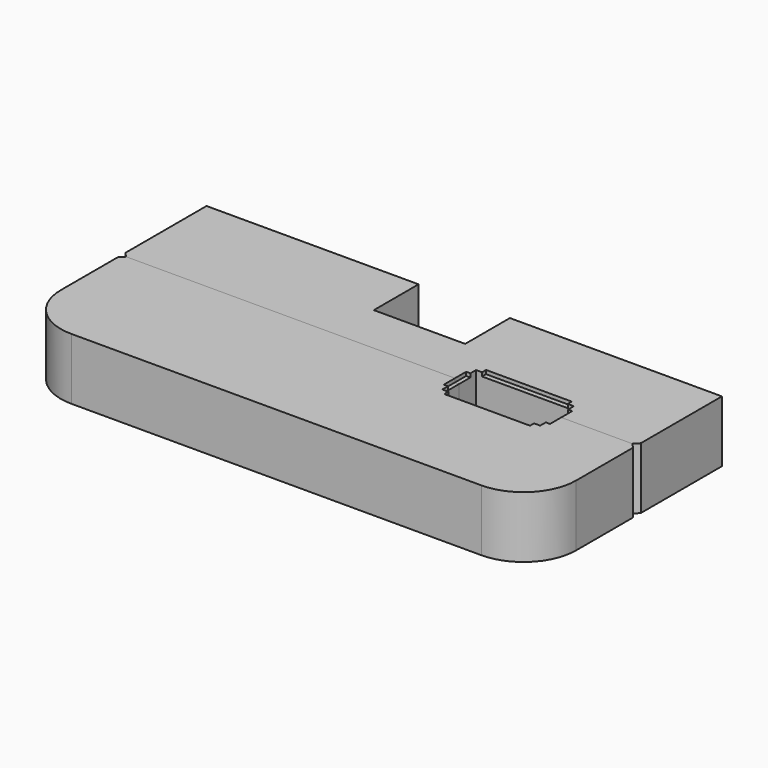
from build123d import *

# Parameters (mm, degrees)
F1_DEPTH  = 8.382
F2_DEPTH  = 8.382
F3_W      = 6.6675
F3_H      = 2.8702
F4_DEPTH  = 25.4
F5_W      = 3.6195
F5_H      = 1.27
F6_DEPTH  = 7.366
F8_DEPTH  = 24.003
F9_DEPTH  = 4.953
F10_W     = 0.5715
F10_H     = 1.905
F10_W_2   = 5.842
F10_H_2   = 1.651
F10_H_3   = 0.6858
F11_DEPTH = 0.508


with BuildPart() as f1:
    # F0 (on Top) → F1 (new body)
    with BuildSketch(Plane.XY):
        Polygon((-6.223, -7.62), (-6.223, 0), (-35.1155, 0), (-35.1155, -13.8176), (-34.49955, -14.478), (0, -14.478), (0, -7.62), align=None)
        Polygon((35.1155, 0), (6.223, 0), (6.223, -7.62), (0, -7.62), (0, -14.478), (34.49955, -14.478), (35.1155, -13.8176), align=None)
    extrude(amount=F1_DEPTH)


with BuildPart() as f2:
    # F0 (on Top) → F2 (new body)
    with BuildSketch(Plane.XY):
        with BuildLine():
            Line((0, -32.004), (0, -14.478))
            Line((0, -14.478), (-34.49955, -14.478))
            Line((-34.49955, -14.478), (-35.1155, -15.1384))
            Line((-35.1155, -15.1384), (-35.1155, -24.8285))
            ThreePointArc((-35.1155, -24.8285), (-27.94, -17.653), (-20.7645, -24.8285))
            ThreePointArc((-20.7645, -24.8285), (-22.8661552916, -29.9023447084), (-27.94, -32.004))
            Line((-27.94, -32.004), (0, -32.004))
        make_face()
        with BuildLine():
            ThreePointArc((-35.1155, -24.8285), (-33.0138447084, -29.9023447084), (-27.94, -32.004))
            ThreePointArc((-27.94, -32.004), (-22.8661552916, -29.9023447084), (-20.7645, -24.8285))
            ThreePointArc((-20.7645, -24.8285), (-27.94, -17.653), (-35.1155, -24.8285))
        make_face()
        with BuildLine():
            Line((34.49955, -14.478), (0, -14.478))
            Line((0, -14.478), (0, -32.004))
            Line((0, -32.004), (27.94, -32.004))
            ThreePointArc((27.94, -32.004), (22.8661552916, -19.7546552916), (35.1155, -24.8285))
            Line((35.1155, -24.8285), (35.1155, -15.1384))
            Line((35.1155, -15.1384), (34.49955, -14.478))
        make_face()
        with BuildLine():
            ThreePointArc((35.1155, -24.8285), (22.8661552916, -19.7546552916), (27.94, -32.004))
            ThreePointArc((27.94, -32.004), (33.0138447084, -29.9023447084), (35.1155, -24.8285))
        make_face()
    extrude(amount=F2_DEPTH)


with BuildPart() as f4_tool:
    # F3 (on face) → F4 (new body)
    with BuildSketch(Plane.XY.offset(8.382)):
        with Locations((14.224, -13.0429)):
            Rectangle(F3_W, F3_H)
        with Locations((20.8915, -13.0429)):
            Rectangle(F3_W, F3_H)
        Polygon((17.55775, -14.478), (10.89025, -14.478), (10.89025, -17.3482), (24.22525, -17.3482), (24.22525, -14.478), align=None)
    extrude(amount=-F4_DEPTH)


with BuildPart() as f1_1:
    add(f1.part)

    # F4: cut by f4_tool
    add(f4_tool.part, mode=Mode.SUBTRACT)


with BuildPart() as f2_1:
    add(f2.part)

    # F4: cut by f4_tool
    add(f4_tool.part, mode=Mode.SUBTRACT)

    # F5 (on Top) → F6 (cut)
    with BuildSketch(Plane.XY):
        Polygon((33.289875, -21.463), (29.670375, -21.463), (29.670375, -22.733), (29.670375, -24.003), (33.289875, -24.003), align=None)
        with Locations((27.860625, -22.098)):
            Rectangle(F5_W, F5_H)
        with Locations((27.860625, -23.368)):
            Rectangle(F5_W, F5_H)
        Polygon((-26.050875, -24.003), (-26.050875, -22.733), (-26.050875, -21.463), (-33.289875, -21.463), (-33.289875, -24.003), align=None)
    extrude(amount=F6_DEPTH, mode=Mode.SUBTRACT)


with BuildPart() as f8_tool:
    # F7 (on face) → F8 (new body)
    with BuildSketch(Plane(origin=(0, 0, 0), x_dir=(-1, 0, 0), z_dir=(0, 1, 0))):
        with BuildLine():
            Line((-29.670375, 4.191), (-29.670375, 2.794))
            ThreePointArc((-29.670375, 2.794), (-28.6825468267, 3.2031718267), (-28.273375, 4.191))
            Line((-28.273375, 4.191), (-29.670375, 4.191))
        make_face()
        with BuildLine():
            Line((-29.670375, 5.588), (-29.670375, 4.191))
            Line((-29.670375, 4.191), (-28.273375, 4.191))
            ThreePointArc((-28.273375, 4.191), (-28.6825468267, 5.1788281733), (-29.670375, 5.588))
        make_face()
        with BuildLine():
            ThreePointArc((-29.670375, 5.588), (-31.067375, 4.191), (-29.670375, 2.794))
            Line((-29.670375, 2.794), (-29.670375, 4.191))
            Line((-29.670375, 4.191), (-29.670375, 5.588))
        make_face()
        with BuildLine():
            ThreePointArc((31.067375, 4.191), (29.670375, 5.588), (28.273375, 4.191))
            ThreePointArc((28.273375, 4.191), (29.670375, 2.794), (31.067375, 4.191))
        make_face()
    extrude(amount=-F8_DEPTH)


with BuildPart() as f1_2:
    add(f1_1.part)

    # F8: cut by f8_tool
    add(f8_tool.part, mode=Mode.SUBTRACT)

    # F7 (on face) → F9 (cut)
    with BuildSketch(Plane(origin=(0, 0, 0), x_dir=(-1, 0, 0), z_dir=(0, 1, 0))):
        with BuildLine():
            ThreePointArc((-27.003375, 4.191), (-27.7845212146, 6.0768537854), (-29.670375, 6.858))
            Line((-29.670375, 6.858), (-29.670375, 5.588))
            ThreePointArc((-29.670375, 5.588), (-28.6825468267, 5.1788281733), (-28.273375, 4.191))
            Line((-28.273375, 4.191), (-27.003375, 4.191))
        make_face()
        with BuildLine():
            ThreePointArc((-29.670375, 6.858), (-32.337375, 4.191), (-29.670375, 1.524))
            Line((-29.670375, 1.524), (-29.670375, 2.794))
            ThreePointArc((-29.670375, 2.794), (-31.067375, 4.191), (-29.670375, 5.588))
            Line((-29.670375, 5.588), (-29.670375, 6.858))
        make_face()
        with BuildLine():
            Line((-29.670375, 2.794), (-29.670375, 1.524))
            ThreePointArc((-29.670375, 1.524), (-27.7845212146, 2.3051462146), (-27.003375, 4.191))
            Line((-27.003375, 4.191), (-28.273375, 4.191))
            ThreePointArc((-28.273375, 4.191), (-28.6825468267, 3.2031718267), (-29.670375, 2.794))
        make_face()
        with BuildLine():
            ThreePointArc((32.337375, 4.191), (29.670375, 6.858), (27.003375, 4.191))
            ThreePointArc((27.003375, 4.191), (29.670375, 1.524), (32.337375, 4.191))
        make_face()
        with BuildLine():
            ThreePointArc((31.067375, 4.191), (29.670375, 2.794), (28.273375, 4.191))
            ThreePointArc((28.273375, 4.191), (29.670375, 5.588), (31.067375, 4.191))
        make_face(mode=Mode.SUBTRACT)
    extrude(amount=-F9_DEPTH, mode=Mode.SUBTRACT)


with BuildPart() as f2_2:
    add(f2_1.part)

    # F8: cut by f8_tool
    add(f8_tool.part, mode=Mode.SUBTRACT)


with BuildPart() as f11_tool:
    # F10 (on face) → F11 (new body)
    with BuildSketch(Plane.XY.offset(8.382)):
        with Locations((10.6045, -15.4305)):
            Rectangle(F10_W, F10_H)
        with Locations((20.47875, -11.7475)):
            Rectangle(F10_W_2, F10_H_2)
        with Locations((24.511, -15.4305)):
            Rectangle(F10_W, F10_H)
        Polygon((23.39975, -12.573), (23.39975, -14.478), (24.22525, -14.478), (24.79675, -14.478), (24.79675, -12.573), align=None)
        Polygon((10.31875, -14.478), (10.89025, -14.478), (11.71575, -14.478), (11.71575, -12.573), (10.31875, -12.573), align=None)
        with Locations((14.63675, -17.6911)):
            Rectangle(F10_W_2, F10_H_3)
        with Locations((20.47875, -17.6911)):
            Rectangle(F10_W_2, F10_H_3)
        with Locations((14.63675, -11.7475)):
            Rectangle(F10_W_2, F10_H_2)
    extrude(amount=-F11_DEPTH)


with BuildPart() as f1_3:
    add(f1_2.part)

    # F11: cut by f11_tool
    add(f11_tool.part, mode=Mode.SUBTRACT)


with BuildPart() as f2_3:
    add(f2_2.part)

    # F11: cut by f11_tool
    add(f11_tool.part, mode=Mode.SUBTRACT)


solid = Compound([f1_3.part, f2_3.part])
